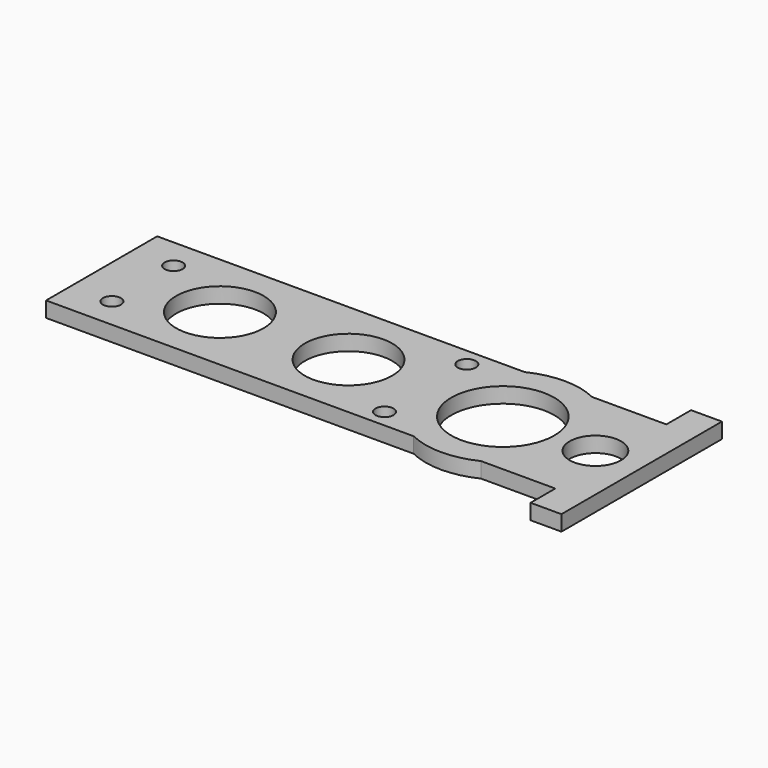
from build123d import *

# Parameters (mm, degrees)
F0_R     = 1.75
F0_R_2   = 8.5
F0_R_3   = 10
F0_R_4   = 5
F0_W     = 6
F0_H     = 6
F1_DEPTH = 3


with BuildPart() as f1:
    # F0 (on Top) → F1 (new body)
    with BuildSketch(Plane.XY):
        Polygon((42, -13.5), (42, 13.5), (36, 13.5), (21.538348, 13.5), (8.461652, 13.5), (-63, 13.5), (-63, -13.5), (8.461652, -13.5), (21.538348, -13.5), (36, -13.5), align=None)
        with Locations((-55, -7.5)):
            Circle(F0_R, mode=Mode.SUBTRACT)
        with Locations((0, -10)):
            Circle(F0_R, mode=Mode.SUBTRACT)
        with Locations((-40, 0)):
            Circle(F0_R_2, mode=Mode.SUBTRACT)
        with Locations((-55, 7.5)):
            Circle(F0_R, mode=Mode.SUBTRACT)
        with Locations((-15, 0)):
            Circle(F0_R_2, mode=Mode.SUBTRACT)
        with Locations((15, 0)):
            Circle(F0_R_3, mode=Mode.SUBTRACT)
        with Locations((33, 0)):
            Circle(F0_R_4, mode=Mode.SUBTRACT)
        with Locations((0, 10)):
            Circle(F0_R, mode=Mode.SUBTRACT)
        with Locations((39, -16.5)):
            Rectangle(F0_W, F0_H)
        with Locations((39, 16.5)):
            Rectangle(F0_W, F0_H)
        with BuildLine():
            Line((8.461652, 13.5), (21.538348, 13.5))
            ThreePointArc((21.538348, 13.5), (15, 15), (8.461652, 13.5))
        make_face()
        with BuildLine():
            ThreePointArc((8.461652, -13.5), (15, -15), (21.538348, -13.5))
            Line((21.538348, -13.5), (8.461652, -13.5))
        make_face()
    extrude(amount=F1_DEPTH)


solid = f1.part
